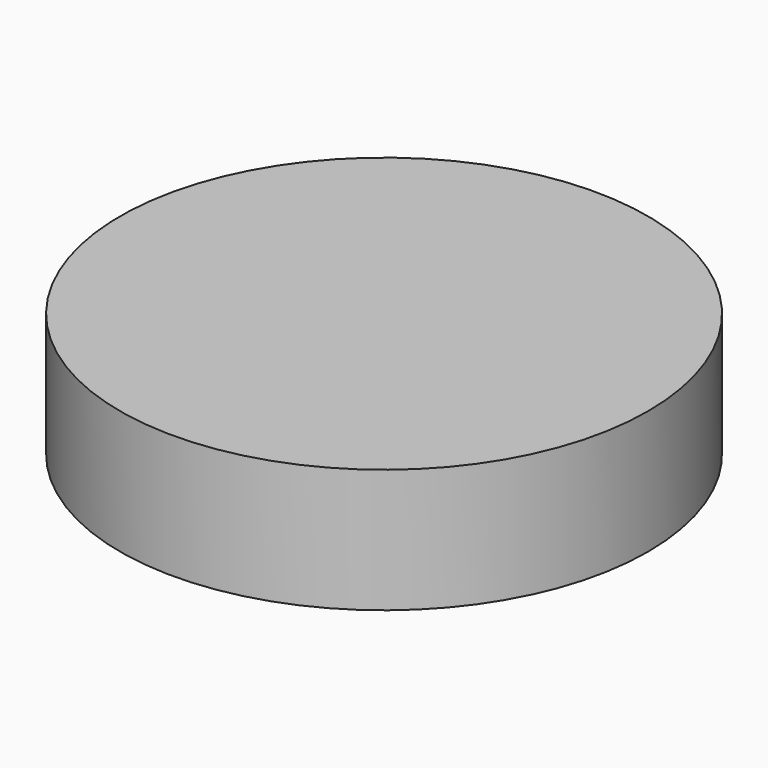
from build123d import *

# Parameters (mm, degrees)
F0_R     = 1.5
F1_DEPTH = 1.5
F2_R     = 64
F3_DEPTH = 30


with BuildPart() as f1:
    # F0 (on Top) → F1 (new body)
    with BuildSketch(Plane.XY):
        with BuildLine():
            Line((0, 18), (-15.25, 18))
            ThreePointArc((-15.25, 18), (-17.194544, 17.194544), (-18, 15.25))
            Line((-18, 15.25), (-18, 0))
            Line((-18, 0), (-18, -15.25))
            ThreePointArc((-18, -15.25), (-17.194544, -17.194544), (-15.25, -18))
            Line((-15.25, -18), (0, -18))
            Line((0, -18), (15.25, -18))
            ThreePointArc((15.25, -18), (17.194544, -17.194544), (18, -15.25))
            Line((18, -15.25), (18, 0))
            Line((18, 0), (18, 15.25))
            ThreePointArc((18, 15.25), (17.194544, 17.194544), (15.25, 18))
            Line((15.25, 18), (0, 18))
        make_face()
        with Locations((-15.25, -15.25)):
            Circle(F0_R, mode=Mode.SUBTRACT)
        with Locations((15.25, -15.25)):
            Circle(F0_R, mode=Mode.SUBTRACT)
        with Locations((-15.25, 15.25)):
            Circle(F0_R, mode=Mode.SUBTRACT)
        with Locations((15.25, 15.25)):
            Circle(F0_R, mode=Mode.SUBTRACT)
    extrude(amount=F1_DEPTH)


with BuildPart() as f3:
    # F2 (on Top) → F3 (new body)
    with BuildSketch(Plane.XY):
        Circle(F2_R)
    extrude(amount=F3_DEPTH)


solid = Compound([f1.part, f3.part])
